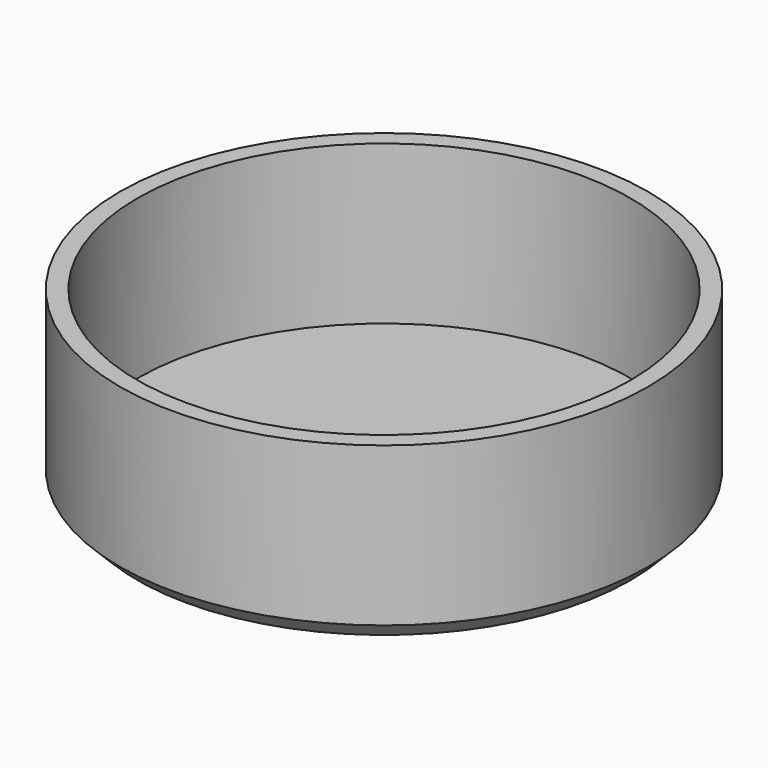
from build123d import *

# Parameters (mm, degrees)
F0_R     = 38.1
F1_DEPTH = 25.4
F2_T     = -2.54
F3_SIZE  = 2.54
F5_D     = 6.35


with BuildPart() as f1:
    # F0 (on Top) → F1 (new body)
    with BuildSketch(Plane.XY):
        Circle(F0_R)
    extrude(amount=F1_DEPTH)

    # F2
    f2_openings = [f1.faces().sort_by_distance(p)[0] for p in [
        (0, 0, 25.4),
    ]]
    offset(amount=F2_T, openings=f2_openings)

    # F3
    f3_edges = [f1.edges().sort_by_distance(p)[0] for p in [
        (-38.1, 0, 0),
    ]]
    chamfer(f3_edges, length=F3_SIZE)

    # F5 (through all)
    with Locations(Plane(origin=(0, 0, 0), x_dir=(1, 0, 0), z_dir=(0, 0, -1))):
        with Locations((0, 0)):
            Hole(F5_D / 2)


solid = f1.part
